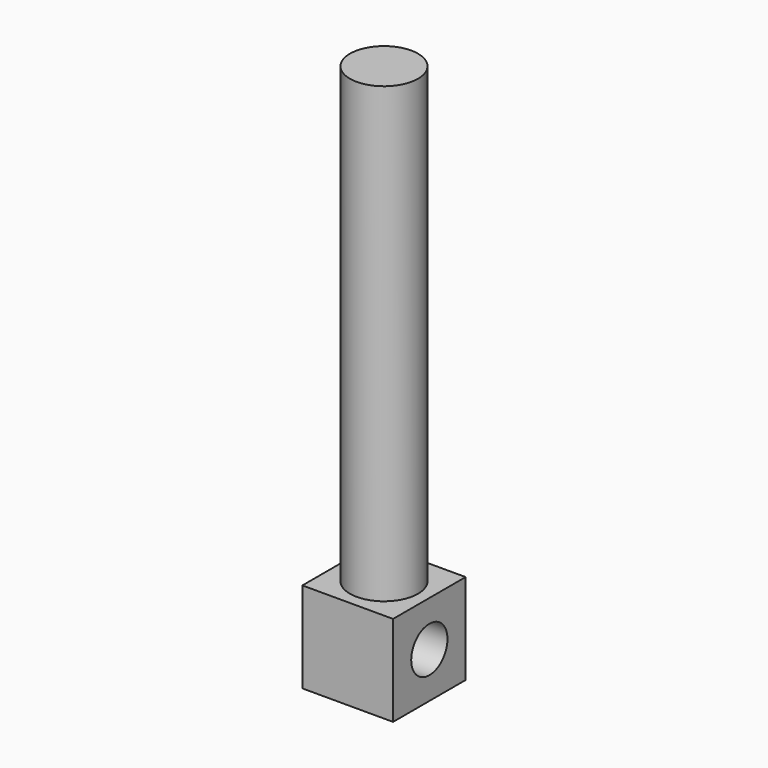
from build123d import *

# Parameters (mm, degrees)
F0_W     = 12.7
F0_H     = 12.7
F1_DEPTH = 12.7
F2_R     = 4.7625
F3_DEPTH = 63.5
F4_R     = 3.175
F5_DEPTH = 12.701


with BuildPart() as f1:
    # F0 (on Front) → F1 (new body)
    with BuildSketch(Plane.XZ):
        Rectangle(F0_W, F0_H)
    extrude(amount=F1_DEPTH)

    # F2 (on face) → F3 (join)
    with BuildSketch(Plane.XY.offset(6.35)):
        with Locations((0, -6.35)):
            Circle(F2_R)
    extrude(amount=F3_DEPTH)

    # F4 (on face) → F5 (cut, through all)
    with BuildSketch(Plane(origin=(-6.35, 0, 0), x_dir=(0, -1, 0), z_dir=(-1, 0, 0))):
        with Locations((6.35, 0)):
            Circle(F4_R)
    extrude(amount=-F5_DEPTH, mode=Mode.SUBTRACT)


solid = f1.part
